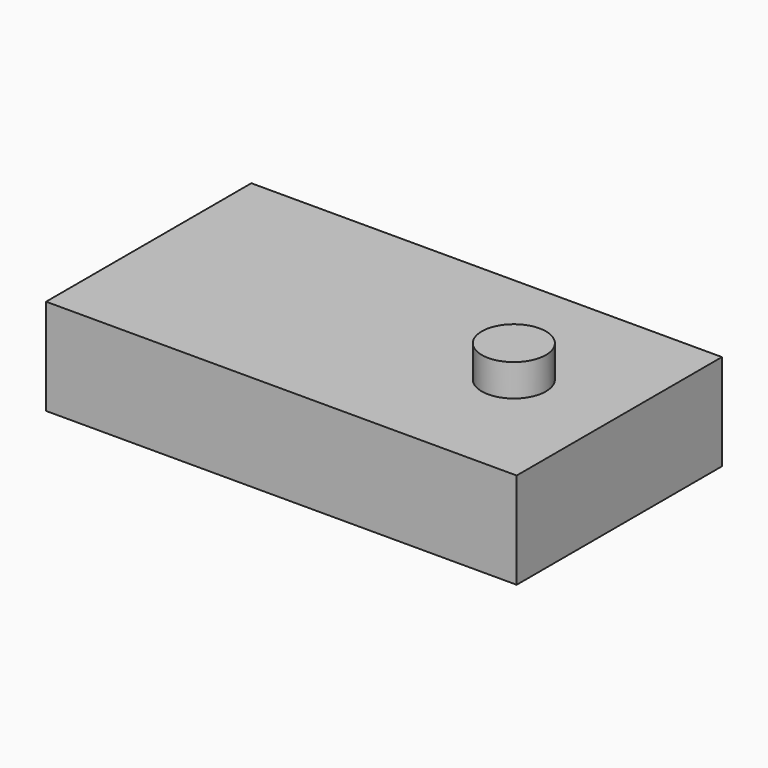
from build123d import *

# Parameters (mm, degrees)
F0_W     = 372.745
F0_H     = 76.2
F1_DEPTH = 203.2
F2_R     = 25.4
F3_DEPTH = 25.4


with BuildPart() as f1:
    # F0 (on Front) → F1 (new body)
    with BuildSketch(Plane.XZ):
        with Locations((186.3725, -38.1)):
            Rectangle(F0_W, F0_H)
    extrude(amount=F1_DEPTH)

    # F2 (on face) → F3 (join)
    with BuildSketch(Plane.XY):
        with Locations((291.115373, -103.962786)):
            Circle(F2_R)
    extrude(amount=F3_DEPTH)


solid = f1.part
